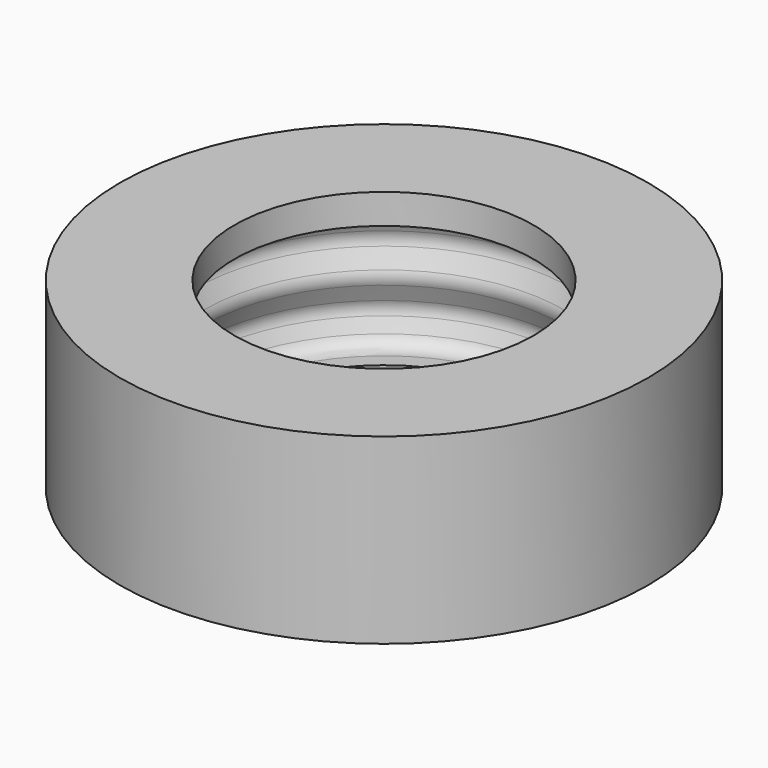
from build123d import *


with BuildPart() as f1:
    # F0 (on Front) → F1 (revolve)
    with BuildSketch(Plane.XZ):
        with BuildLine():
            Line((45, 22.972104), (25.5, 22.972104))
            Line((25.5, 22.972104), (25.5, 17.872104))
            Line((25.5, 17.872104), (28.206175, 17.872104))
            ThreePointArc((28.206175, 17.872104), (29.872886, 17.366513), (30.977813, 16.020154))
            Line((30.977813, 16.020154), (31.899439, 13.795154))
            ThreePointArc((31.899439, 13.795154), (32.1278, 12.647104), (31.899439, 11.499054))
            Line((31.899439, 11.499054), (30.686249, 8.570154))
            ThreePointArc((30.686249, 8.570154), (30.457887, 7.422104), (30.686249, 6.274054))
            Line((30.686249, 6.274054), (31.899439, 3.345154))
            ThreePointArc((31.899439, 3.345154), (32.1278, 2.197104), (31.899439, 1.049054))
            Line((31.899439, 1.049054), (30.977813, -1.175946))
            ThreePointArc((30.977813, -1.175946), (29.872886, -2.522305), (28.206175, -3.027896))
            Line((28.206175, -3.027896), (27.959198, -3.027896))
            Line((27.959198, -3.027896), (25.5, -3.027896))
            Line((25.5, -3.027896), (25.5, -8.127896))
            Line((25.5, -8.127896), (45, -8.127896))
            Line((45, -8.127896), (45, 22.972104))
        make_face()
    revolve(axis=Axis((0, 0, 7.422104), (0, 0, -1)))


solid = f1.part
